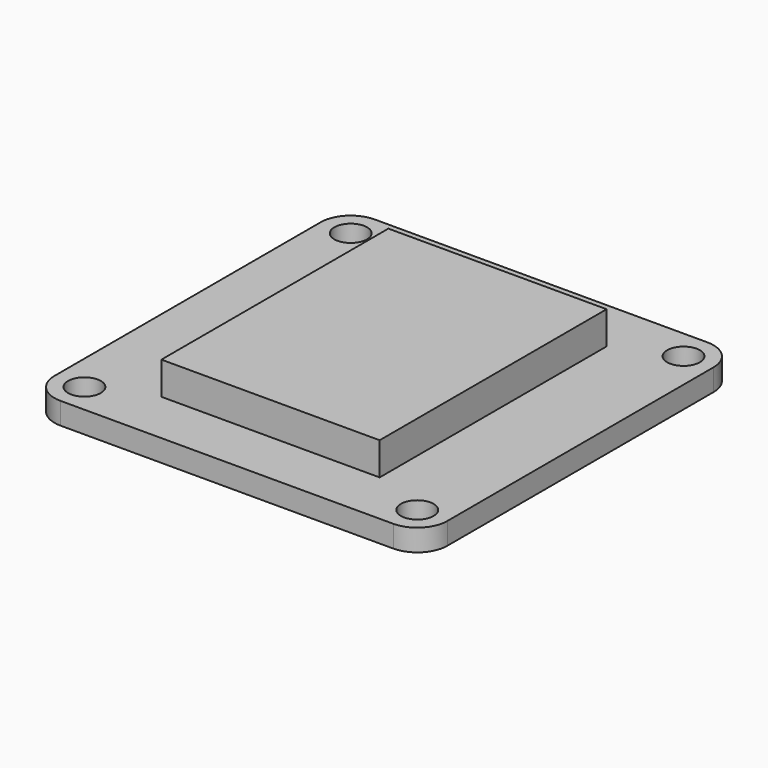
from build123d import *

# Parameters (mm, degrees)
F0_R     = 1.5
F1_DEPTH = 2
F2_W     = 20
F2_H     = 26
F3_DEPTH = 5


with BuildPart() as f1:
    # F0 (on Top) → F1 (new body)
    with BuildSketch(Plane.XY):
        with BuildLine():
            Line((15.25, 18), (-15.25, 18))
            ThreePointArc((-15.25, 18), (-17.194544, 17.194544), (-18, 15.25))
            Line((-18, 15.25), (-18, -15.25))
            ThreePointArc((-18, -15.25), (-17.194544, -17.194544), (-15.25, -18))
            Line((-15.25, -18), (15.25, -18))
            ThreePointArc((15.25, -18), (17.194544, -17.194544), (18, -15.25))
            Line((18, -15.25), (18, 15.25))
            ThreePointArc((18, 15.25), (17.194544, 17.194544), (15.25, 18))
        make_face()
        with Locations((-15.25, -15.25)):
            Circle(F0_R, mode=Mode.SUBTRACT)
        with Locations((15.25, -15.25)):
            Circle(F0_R, mode=Mode.SUBTRACT)
        with Locations((-15.25, 15.25)):
            Circle(F0_R, mode=Mode.SUBTRACT)
        with Locations((15.25, 15.25)):
            Circle(F0_R, mode=Mode.SUBTRACT)
    extrude(amount=F1_DEPTH)


with BuildPart() as f3:
    # F2 (on Top) → F3 (new body)
    with BuildSketch(Plane.XY):
        Rectangle(F2_W, F2_H)
    extrude(amount=F3_DEPTH)


solid = Compound([f1.part, f3.part])
